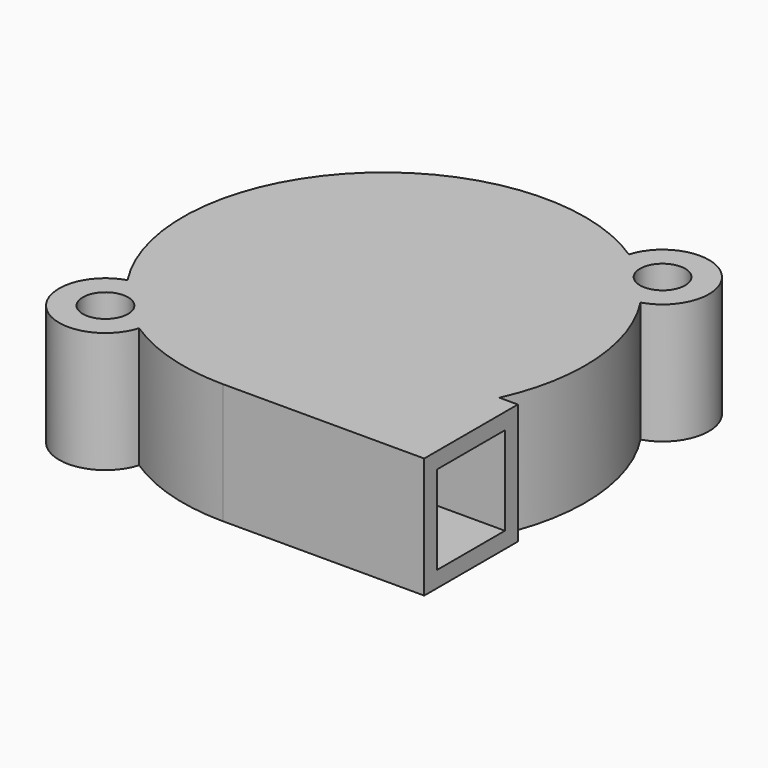
from build123d import *

# Parameters (mm, degrees)
F0_R     = 2.809375
F1_DEPTH = 15
F2_W     = 10.537216
F2_H     = 11
F3_DEPTH = 25


with BuildPart() as f1:
    # F0 (on Top) → F1 (new body)
    with BuildSketch(Plane.XY):
        with BuildLine():
            ThreePointArc((47.705289, 14.537216), (38.480178, 3.94567), (25, 0))
            Line((25, 0), (50, 0))
            Line((50, 0), (50, 14.537216))
            Line((50, 14.537216), (47.705289, 14.537216))
        make_face()
        with BuildLine():
            ThreePointArc((11.28709, 4.096505), (17.844142, 1.046009), (25, 0))
            ThreePointArc((25, 0), (38.480178, 3.94567), (47.705289, 14.537216))
            ThreePointArc((47.705289, 14.537216), (49.930855, 26.858075), (45.903495, 38.71291))
            ThreePointArc((45.903495, 38.71291), (48.310829, 48.310829), (38.71291, 45.903495))
            ThreePointArc((38.71291, 45.903495), (7.32233, 42.67767), (4.096505, 11.28709))
            ThreePointArc((4.096505, 11.28709), (1.689171, 1.689171), (11.28709, 4.096505))
        make_face()
        with Locations((5.767191, 5.767191)):
            Circle(F0_R, mode=Mode.SUBTRACT)
        with Locations((44.232809, 44.232809)):
            Circle(F0_R, mode=Mode.SUBTRACT)
    extrude(amount=F1_DEPTH)

    # F2 (on face) → F3 (cut)
    with BuildSketch(Plane.YZ.offset(50)):
        with Locations((7.268608, 7.5)):
            Rectangle(F2_W, F2_H)
    extrude(amount=-F3_DEPTH, mode=Mode.SUBTRACT)


solid = f1.part
